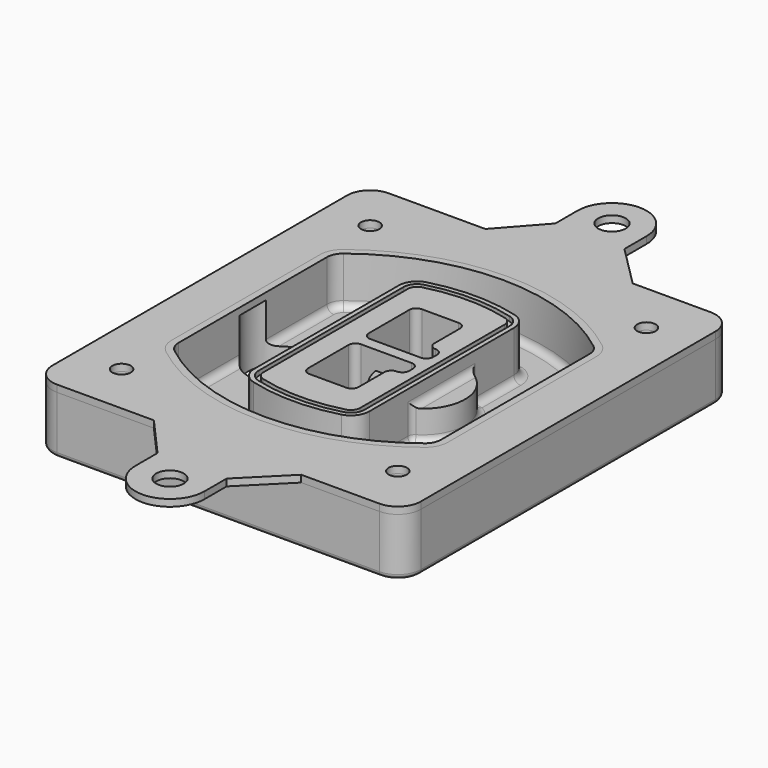
from build123d import *

# Parameters (mm, degrees)
F0_R      = 4
F1_DEPTH  = 25
F2_DEPTH  = 3
F3_DEPTH  = 18
F5_DEPTH  = 21
F6_DEPTH  = 2
F8_DEPTH  = 20
F9_DEPTH  = 16
F10_DEPTH = 25
F7_R      = 6
F7_R_2    = 4
F11_DEPTH = 6
F13_DEPTH = 9
F14_R     = 3
F15_R     = 2
F16_R     = 6
F16_R_2   = 4
F17_DEPTH = 3


with BuildPart() as f1:
    # F0 (on Top) → F1 (new body)
    with BuildSketch(Plane.XY):
        with BuildLine():
            ThreePointArc((-80, -80), (-77.0710678119, -87.0710678119), (-70, -90))
            Line((-70, -90), (70, -90))
            ThreePointArc((70, -90), (77.0710678119, -87.0710678119), (80, -80))
            Line((80, -80), (80, 80))
            ThreePointArc((80, 80), (77.0710678119, 87.0710678119), (70, 90))
            Line((70, 90), (-70, 90))
            ThreePointArc((-70, 90), (-77.0710678119, 87.0710678119), (-80, 80))
            Line((-80, 80), (-80, -80))
        make_face()
        with Locations((-60, -67.5)):
            Circle(F0_R, mode=Mode.SUBTRACT)
        with Locations((60, -67.5)):
            Circle(F0_R, mode=Mode.SUBTRACT)
        with Locations((-60, 67.5)):
            Circle(F0_R, mode=Mode.SUBTRACT)
        with BuildLine():
            ThreePointArc((-64, 40.2934422872), (-62.5820384798, 46.4328484224), (-58.6153846154, 51.3286200352))
            ThreePointArc((-58.6153846154, 51.3286200352), (0, 71.5), (58.6153846154, 51.3286200352))
            ThreePointArc((58.6153846154, 51.3286200352), (62.5820384798, 46.4328484224), (64, 40.2934422872))
            Line((64, 40.2934422872), (64, -40.2934422872))
            ThreePointArc((64, -40.2934422872), (62.5820384798, -46.4328484224), (58.6153846154, -51.3286200352))
            ThreePointArc((58.6153846154, -51.3286200352), (0, -71.5), (-58.6153846154, -51.3286200352))
            ThreePointArc((-58.6153846154, -51.3286200352), (-62.5820384798, -46.4328484224), (-64, -40.2934422872))
            Line((-64, -40.2934422872), (-64, 40.2934422872))
        make_face(mode=Mode.SUBTRACT)
        with Locations((60, 67.5)):
            Circle(F0_R, mode=Mode.SUBTRACT)
        with BuildLine():
            ThreePointArc((58.6153846154, 51.3286200352), (0, 71.5), (-58.6153846154, 51.3286200352))
            ThreePointArc((-58.6153846154, 51.3286200352), (-62.5820384798, 46.4328484224), (-64, 40.2934422872))
            Line((-64, 40.2934422872), (-64, -40.2934422872))
            ThreePointArc((-64, -40.2934422872), (-62.5820384798, -46.4328484224), (-58.6153846154, -51.3286200352))
            ThreePointArc((-58.6153846154, -51.3286200352), (0, -71.5), (58.6153846154, -51.3286200352))
            ThreePointArc((58.6153846154, -51.3286200352), (62.5820384798, -46.4328484224), (64, -40.2934422872))
            Line((64, -40.2934422872), (64, 40.2934422872))
            ThreePointArc((64, 40.2934422872), (62.5820384798, 46.4328484224), (58.6153846154, 51.3286200352))
        make_face()
        with BuildLine():
            Line((-60, -40.2934422872), (-60, 40.2934422872))
            ThreePointArc((-60, 40.2934422872), (-58.9871703427, 44.6787323838), (-56.1538461538, 48.1757121072))
            ThreePointArc((-56.1538461538, 48.1757121072), (0, 67.5), (56.1538461538, 48.1757121072))
            ThreePointArc((56.1538461538, 48.1757121072), (58.9871703427, 44.6787323838), (60, 40.2934422872))
            Line((60, 40.2934422872), (60, -40.2934422872))
            ThreePointArc((60, -40.2934422872), (58.9871703427, -44.6787323838), (56.1538461538, -48.1757121072))
            ThreePointArc((56.1538461538, -48.1757121072), (0, -67.5), (-56.1538461538, -48.1757121072))
            ThreePointArc((-56.1538461538, -48.1757121072), (-58.9871703427, -44.6787323838), (-60, -40.2934422872))
        make_face(mode=Mode.SUBTRACT)
        with BuildLine():
            ThreePointArc((-56.1538461538, 48.1757121072), (-58.9871703427, 44.6787323838), (-60, 40.2934422872))
            Line((-60, 40.2934422872), (-60, -40.2934422872))
            ThreePointArc((-60, -40.2934422872), (-58.9871703427, -44.6787323838), (-56.1538461538, -48.1757121072))
            ThreePointArc((-56.1538461538, -48.1757121072), (0, -67.5), (56.1538461538, -48.1757121072))
            ThreePointArc((56.1538461538, -48.1757121072), (58.9871703427, -44.6787323838), (60, -40.2934422872))
            Line((60, -40.2934422872), (60, 40.2934422872))
            ThreePointArc((60, 40.2934422872), (58.9871703427, 44.6787323838), (56.1538461538, 48.1757121072))
            ThreePointArc((56.1538461538, 48.1757121072), (0, 67.5), (-56.1538461538, 48.1757121072))
        make_face()
        with BuildLine():
            ThreePointArc((54.3076923077, 45.8110311612), (56.2910192399, 43.3631453548), (57, 40.2934422872))
            Line((57, 40.2934422872), (57, -40.2934422872))
            ThreePointArc((57, -40.2934422872), (56.2910192399, -43.3631453548), (54.3076923077, -45.8110311612))
            ThreePointArc((54.3076923077, -45.8110311612), (0, -64.5), (-54.3076923077, -45.8110311612))
            ThreePointArc((-54.3076923077, -45.8110311612), (-56.2910192399, -43.3631453548), (-57, -40.2934422872))
            Line((-57, -40.2934422872), (-57, 40.2934422872))
            ThreePointArc((-57, 40.2934422872), (-56.2910192399, 43.3631453548), (-54.3076923077, 45.8110311612))
            ThreePointArc((-54.3076923077, 45.8110311612), (0, 64.5), (54.3076923077, 45.8110311612))
        make_face(mode=Mode.SUBTRACT)
        with BuildLine():
            Line((57, -40.2934422872), (57, 40.2934422872))
            ThreePointArc((57, 40.2934422872), (56.2910192399, 43.3631453548), (54.3076923077, 45.8110311612))
            ThreePointArc((54.3076923077, 45.8110311612), (0, 64.5), (-54.3076923077, 45.8110311612))
            ThreePointArc((-54.3076923077, 45.8110311612), (-56.2910192399, 43.3631453548), (-57, 40.2934422872))
            Line((-57, 40.2934422872), (-57, -40.2934422872))
            ThreePointArc((-57, -40.2934422872), (-56.2910192399, -43.3631453548), (-54.3076923077, -45.8110311612))
            ThreePointArc((-54.3076923077, -45.8110311612), (0, -64.5), (54.3076923077, -45.8110311612))
            ThreePointArc((54.3076923077, -45.8110311612), (56.2910192399, -43.3631453548), (57, -40.2934422872))
        make_face()
    extrude(amount=-F1_DEPTH)

    # F0 (on Top) → F2 (join)
    with BuildSketch(Plane.XY):
        with BuildLine():
            ThreePointArc((-56.1538461538, 48.1757121072), (-58.9871703427, 44.6787323838), (-60, 40.2934422872))
            Line((-60, 40.2934422872), (-60, -40.2934422872))
            ThreePointArc((-60, -40.2934422872), (-58.9871703427, -44.6787323838), (-56.1538461538, -48.1757121072))
            ThreePointArc((-56.1538461538, -48.1757121072), (0, -67.5), (56.1538461538, -48.1757121072))
            ThreePointArc((56.1538461538, -48.1757121072), (58.9871703427, -44.6787323838), (60, -40.2934422872))
            Line((60, -40.2934422872), (60, 40.2934422872))
            ThreePointArc((60, 40.2934422872), (58.9871703427, 44.6787323838), (56.1538461538, 48.1757121072))
            ThreePointArc((56.1538461538, 48.1757121072), (0, 67.5), (-56.1538461538, 48.1757121072))
        make_face()
        with BuildLine():
            ThreePointArc((54.3076923077, 45.8110311612), (56.2910192399, 43.3631453548), (57, 40.2934422872))
            Line((57, 40.2934422872), (57, -40.2934422872))
            ThreePointArc((57, -40.2934422872), (56.2910192399, -43.3631453548), (54.3076923077, -45.8110311612))
            ThreePointArc((54.3076923077, -45.8110311612), (0, -64.5), (-54.3076923077, -45.8110311612))
            ThreePointArc((-54.3076923077, -45.8110311612), (-56.2910192399, -43.3631453548), (-57, -40.2934422872))
            Line((-57, -40.2934422872), (-57, 40.2934422872))
            ThreePointArc((-57, 40.2934422872), (-56.2910192399, 43.3631453548), (-54.3076923077, 45.8110311612))
            ThreePointArc((-54.3076923077, 45.8110311612), (0, 64.5), (54.3076923077, 45.8110311612))
        make_face(mode=Mode.SUBTRACT)
    extrude(amount=F2_DEPTH)

    # F0 (on Top) → F3 (cut)
    with BuildSketch(Plane.XY):
        with BuildLine():
            Line((57, -40.2934422872), (57, 40.2934422872))
            ThreePointArc((57, 40.2934422872), (56.2910192399, 43.3631453548), (54.3076923077, 45.8110311612))
            ThreePointArc((54.3076923077, 45.8110311612), (0, 64.5), (-54.3076923077, 45.8110311612))
            ThreePointArc((-54.3076923077, 45.8110311612), (-56.2910192399, 43.3631453548), (-57, 40.2934422872))
            Line((-57, 40.2934422872), (-57, -40.2934422872))
            ThreePointArc((-57, -40.2934422872), (-56.2910192399, -43.3631453548), (-54.3076923077, -45.8110311612))
            ThreePointArc((-54.3076923077, -45.8110311612), (0, -64.5), (54.3076923077, -45.8110311612))
            ThreePointArc((54.3076923077, -45.8110311612), (56.2910192399, -43.3631453548), (57, -40.2934422872))
        make_face()
    extrude(amount=-F3_DEPTH, mode=Mode.SUBTRACT)

    # F4 (on face) → F5 (join, through all)
    with BuildSketch(Plane.XY.offset(3)):
        with BuildLine():
            ThreePointArc((-25, -39.2465276821), (-23.3511545998, -44.1109737193), (-19.0842911877, -46.9702398883))
            ThreePointArc((-19.0842911877, -46.9702398883), (0, -49.5), (19.0842911877, -46.9702398883))
            ThreePointArc((19.0842911877, -46.9702398883), (23.3511545998, -44.1109737193), (25, -39.2465276821))
            Line((25, -39.2465276821), (25, 39.2465276821))
            ThreePointArc((25, 39.2465276821), (23.3511545998, 44.1109737193), (19.0842911877, 46.9702398883))
            ThreePointArc((19.0842911877, 46.9702398883), (0, 49.5), (-19.0842911877, 46.9702398883))
            ThreePointArc((-19.0842911877, 46.9702398883), (-23.3511545998, 44.1109737193), (-25, 39.2465276821))
            Line((-25, 39.2465276821), (-25, -39.2465276821))
        make_face()
        with BuildLine():
            ThreePointArc((18.5632183908, 45.0393118368), (21.7633659499, 42.89486221), (23, 39.2465276821))
            Line((23, 39.2465276821), (23, -39.2465276821))
            ThreePointArc((23, -39.2465276821), (21.7633659499, -42.89486221), (18.5632183908, -45.0393118368))
            ThreePointArc((18.5632183908, -45.0393118368), (0, -47.5), (-18.5632183908, -45.0393118368))
            ThreePointArc((-18.5632183908, -45.0393118368), (-21.7633659499, -42.89486221), (-23, -39.2465276821))
            Line((-23, -39.2465276821), (-23, 39.2465276821))
            ThreePointArc((-23, 39.2465276821), (-21.7633659499, 42.89486221), (-18.5632183908, 45.0393118368))
            ThreePointArc((-18.5632183908, 45.0393118368), (0, 47.5), (18.5632183908, 45.0393118368))
        make_face(mode=Mode.SUBTRACT)
        with BuildLine():
            Line((23, -39.2465276821), (23, 39.2465276821))
            ThreePointArc((23, 39.2465276821), (21.7633659499, 42.89486221), (18.5632183908, 45.0393118368))
            ThreePointArc((18.5632183908, 45.0393118368), (0, 47.5), (-18.5632183908, 45.0393118368))
            ThreePointArc((-18.5632183908, 45.0393118368), (-21.7633659499, 42.89486221), (-23, 39.2465276821))
            Line((-23, 39.2465276821), (-23, -39.2465276821))
            ThreePointArc((-23, -39.2465276821), (-21.7633659499, -42.89486221), (-18.5632183908, -45.0393118368))
            ThreePointArc((-18.5632183908, -45.0393118368), (0, -47.5), (18.5632183908, -45.0393118368))
            ThreePointArc((18.5632183908, -45.0393118368), (21.7633659499, -42.89486221), (23, -39.2465276821))
        make_face()
        with BuildLine():
            ThreePointArc((18.0421455939, 43.1083837852), (20.1755772999, 41.6787507007), (21, 39.2465276821))
            Line((21, 39.2465276821), (21, -39.2465276821))
            ThreePointArc((21, -39.2465276821), (20.1755772999, -41.6787507007), (18.0421455939, -43.1083837852))
            ThreePointArc((18.0421455939, -43.1083837852), (0, -45.5), (-18.0421455939, -43.1083837852))
            ThreePointArc((-18.0421455939, -43.1083837852), (-20.1755772999, -41.6787507007), (-21, -39.2465276821))
            Line((-21, -39.2465276821), (-21, 39.2465276821))
            ThreePointArc((-21, 39.2465276821), (-20.1755772999, 41.6787507007), (-18.0421455939, 43.1083837852))
            ThreePointArc((-18.0421455939, 43.1083837852), (0, 45.5), (18.0421455939, 43.1083837852))
        make_face(mode=Mode.SUBTRACT)
        with BuildLine():
            Line((21, -39.2465276821), (21, 39.2465276821))
            ThreePointArc((21, 39.2465276821), (20.1755772999, 41.6787507007), (18.0421455939, 43.1083837852))
            ThreePointArc((18.0421455939, 43.1083837852), (0, 45.5), (-18.0421455939, 43.1083837852))
            ThreePointArc((-18.0421455939, 43.1083837852), (-20.1755772999, 41.6787507007), (-21, 39.2465276821))
            Line((-21, 39.2465276821), (-21, -39.2465276821))
            ThreePointArc((-21, -39.2465276821), (-20.1755772999, -41.6787507007), (-18.0421455939, -43.1083837852))
            ThreePointArc((-18.0421455939, -43.1083837852), (0, -45.5), (18.0421455939, -43.1083837852))
            ThreePointArc((18.0421455939, -43.1083837852), (20.1755772999, -41.6787507007), (21, -39.2465276821))
        make_face()
        with BuildLine():
            Line((-8, -2.5), (14, -2.5))
            ThreePointArc((14, -2.5), (16.1213203436, -3.3786796564), (17, -5.5))
            Line((17, -5.5), (17, -7.5))
            ThreePointArc((17, -7.5), (16.1213203436, -9.6213203436), (14, -10.5))
            ThreePointArc((14, -10.5), (11.8786796564, -11.3786796564), (11, -13.5))
            Line((11, -13.5), (11, -27.5))
            ThreePointArc((11, -27.5), (10.1213203436, -29.6213203436), (8, -30.5))
            Line((8, -30.5), (-8, -30.5))
            ThreePointArc((-8, -30.5), (-10.1213203436, -29.6213203436), (-11, -27.5))
            Line((-11, -27.5), (-11, -5.5))
            ThreePointArc((-11, -5.5), (-10.1213203436, -3.3786796564), (-8, -2.5))
        make_face(mode=Mode.SUBTRACT)
        with BuildLine():
            ThreePointArc((-8, 2.5), (-10.1213203436, 3.3786796564), (-11, 5.5))
            Line((-11, 5.5), (-11, 27.5))
            ThreePointArc((-11, 27.5), (-10.1213203436, 29.6213203436), (-8, 30.5))
            Line((-8, 30.5), (8, 30.5))
            ThreePointArc((8, 30.5), (10.1213203436, 29.6213203436), (11, 27.5))
            Line((11, 27.5), (11, 13.5))
            ThreePointArc((11, 13.5), (11.8786796564, 11.3786796564), (14, 10.5))
            ThreePointArc((14, 10.5), (16.1213203436, 9.6213203436), (17, 7.5))
            Line((17, 7.5), (17, 5.5))
            ThreePointArc((17, 5.5), (16.1213203436, 3.3786796564), (14, 2.5))
            Line((14, 2.5), (-8, 2.5))
        make_face(mode=Mode.SUBTRACT)
    extrude(amount=-F5_DEPTH)

    # F4 (on face) → F6 (cut)
    with BuildSketch(Plane.XY.offset(3)):
        with BuildLine():
            Line((23, -39.2465276821), (23, 39.2465276821))
            ThreePointArc((23, 39.2465276821), (21.7633659499, 42.89486221), (18.5632183908, 45.0393118368))
            ThreePointArc((18.5632183908, 45.0393118368), (0, 47.5), (-18.5632183908, 45.0393118368))
            ThreePointArc((-18.5632183908, 45.0393118368), (-21.7633659499, 42.89486221), (-23, 39.2465276821))
            Line((-23, 39.2465276821), (-23, -39.2465276821))
            ThreePointArc((-23, -39.2465276821), (-21.7633659499, -42.89486221), (-18.5632183908, -45.0393118368))
            ThreePointArc((-18.5632183908, -45.0393118368), (0, -47.5), (18.5632183908, -45.0393118368))
            ThreePointArc((18.5632183908, -45.0393118368), (21.7633659499, -42.89486221), (23, -39.2465276821))
        make_face()
        with BuildLine():
            ThreePointArc((18.0421455939, 43.1083837852), (20.1755772999, 41.6787507007), (21, 39.2465276821))
            Line((21, 39.2465276821), (21, -39.2465276821))
            ThreePointArc((21, -39.2465276821), (20.1755772999, -41.6787507007), (18.0421455939, -43.1083837852))
            ThreePointArc((18.0421455939, -43.1083837852), (0, -45.5), (-18.0421455939, -43.1083837852))
            ThreePointArc((-18.0421455939, -43.1083837852), (-20.1755772999, -41.6787507007), (-21, -39.2465276821))
            Line((-21, -39.2465276821), (-21, 39.2465276821))
            ThreePointArc((-21, 39.2465276821), (-20.1755772999, 41.6787507007), (-18.0421455939, 43.1083837852))
            ThreePointArc((-18.0421455939, 43.1083837852), (0, 45.5), (18.0421455939, 43.1083837852))
        make_face(mode=Mode.SUBTRACT)
    extrude(amount=-F6_DEPTH, mode=Mode.SUBTRACT)

    # F7 (on face) → F8 (join)
    with BuildSketch(Plane(origin=(0, 0, -25), x_dir=(1, 0, 0), z_dir=(0, 0, -1))):
        with BuildLine():
            ThreePointArc((3.28842436, 0), (16.7567035675, 13.4682792075), (30.224982775, 0))
            Line((30.224982775, 0), (35.224982775, 0))
            ThreePointArc((35.224982775, 0), (16.7567035675, 18.4682792075), (-1.71157564, 0))
            Line((-1.71157564, 0), (3.28842436, 0))
        make_face()
        with BuildLine():
            Line((3.28842436, 0), (30.224982775, 0))
            ThreePointArc((30.224982775, 0), (16.7567035675, 13.4682792075), (3.28842436, 0))
        make_face()
        with BuildLine():
            ThreePointArc((3.28842436, 0), (16.7567035675, -13.4682792075), (30.224982775, 0))
            Line((30.224982775, 0), (3.28842436, 0))
        make_face()
        with BuildLine():
            Line((35.224982775, 0), (30.224982775, 0))
            ThreePointArc((30.224982775, 0), (16.7567035675, -13.4682792075), (3.28842436, 0))
            Line((3.28842436, 0), (-1.71157564, 0))
            ThreePointArc((-1.71157564, 0), (16.7567035675, -18.4682792075), (35.224982775, 0))
        make_face()
    extrude(amount=-F8_DEPTH)

    # F7 (on face) → F9 (cut)
    with BuildSketch(Plane(origin=(0, 0, -25), x_dir=(1, 0, 0), z_dir=(0, 0, -1))):
        with BuildLine():
            Line((3.28842436, 0), (30.224982775, 0))
            ThreePointArc((30.224982775, 0), (16.7567035675, 13.4682792075), (3.28842436, 0))
        make_face()
        with BuildLine():
            ThreePointArc((3.28842436, 0), (16.7567035675, -13.4682792075), (30.224982775, 0))
            Line((30.224982775, 0), (3.28842436, 0))
        make_face()
    extrude(amount=-F9_DEPTH, mode=Mode.SUBTRACT)

    # F7 (on face) → F10 (cut)
    with BuildSketch(Plane(origin=(0, 0, -25), x_dir=(1, 0, 0), z_dir=(0, 0, -1))):
        with BuildLine():
            Line((-59.0318229325, 0), (-32.0952645175, 0))
            ThreePointArc((-32.0952645175, 0), (-45.563543725, 13.4682792075), (-59.0318229325, 0))
        make_face()
        with BuildLine():
            ThreePointArc((-59.0318229325, 0), (-45.563543725, -13.4682792075), (-32.0952645175, 0))
            Line((-32.0952645175, 0), (-59.0318229325, 0))
        make_face()
    extrude(amount=-F10_DEPTH, mode=Mode.SUBTRACT)

    # F7 (on face) → F11 (cut)
    with BuildSketch(Plane(origin=(0, 0, -25), x_dir=(1, 0, 0), z_dir=(0, 0, -1))):
        with Locations((60, -67.5)):
            Circle(F7_R)
        with Locations((60, -67.5)):
            Circle(F7_R_2, mode=Mode.SUBTRACT)
        with Locations((60, -67.5)):
            Circle(F7_R)
        with Locations((60, -67.5)):
            Circle(F7_R_2, mode=Mode.SUBTRACT)
        with Locations((-60, -67.5)):
            Circle(F7_R)
        with Locations((-60, -67.5)):
            Circle(F7_R_2, mode=Mode.SUBTRACT)
        with Locations((-60, -67.5)):
            Circle(F7_R)
        with Locations((-60, -67.5)):
            Circle(F7_R_2, mode=Mode.SUBTRACT)
        with Locations((-60, 67.5)):
            Circle(F7_R)
        with Locations((-60, 67.5)):
            Circle(F7_R_2, mode=Mode.SUBTRACT)
        with Locations((-60, 67.5)):
            Circle(F7_R)
        with Locations((-60, 67.5)):
            Circle(F7_R_2, mode=Mode.SUBTRACT)
        with Locations((60, 67.5)):
            Circle(F7_R)
        with Locations((60, 67.5)):
            Circle(F7_R_2, mode=Mode.SUBTRACT)
        with Locations((60, 67.5)):
            Circle(F7_R)
        with Locations((60, 67.5)):
            Circle(F7_R_2, mode=Mode.SUBTRACT)
    extrude(amount=-F11_DEPTH, mode=Mode.SUBTRACT)

    # F12 (on face) → F13 (cut, through all)
    with BuildSketch(Plane(origin=(0, 0, -9), x_dir=(1, 0, 0), z_dir=(0, 0, -1))):
        with BuildLine():
            Line((11, 13.5), (11, 17.5481537753))
            ThreePointArc((11, 17.5481537753), (2.5696536419, 11.8239143813), (-1.5415842455, 2.5))
            Line((-1.5415842455, 2.5), (3.5224848595, 2.5))
            ThreePointArc((3.5224848595, 2.5), (6.1857188154, 8.3455872281), (11.2536447004, 12.2927168648))
            ThreePointArc((11.2536447004, 12.2927168648), (11.0640958889, 12.8831798879), (11, 13.5))
        make_face()
        with BuildLine():
            ThreePointArc((11.2536447004, -12.2927168648), (6.1857188154, -8.3455872281), (3.5224848595, -2.5))
            Line((3.5224848595, -2.5), (-1.5415842455, -2.5))
            ThreePointArc((-1.5415842455, -2.5), (2.5696536419, -11.8239143813), (11, -17.5481537753))
            Line((11, -17.5481537753), (11, -13.5))
            ThreePointArc((11, -13.5), (11.0640958889, -12.8831798879), (11.2536447004, -12.2927168648))
        make_face()
        with BuildLine():
            ThreePointArc((11.2536447004, 12.2927168648), (6.1857188154, 8.3455872281), (3.5224848595, 2.5))
            Line((3.5224848595, 2.5), (14, 2.5))
            ThreePointArc((14, 2.5), (16.1213203436, 3.3786796564), (17, 5.5))
            Line((17, 5.5), (17, 7.5))
            ThreePointArc((17, 7.5), (16.1213203436, 9.6213203436), (14, 10.5))
            ThreePointArc((14, 10.5), (12.3601599782, 10.9878446101), (11.2536447004, 12.2927168648))
        make_face()
        with BuildLine():
            Line((14, -2.5), (3.5224848595, -2.5))
            ThreePointArc((3.5224848595, -2.5), (6.1857188154, -8.3455872281), (11.2536447004, -12.2927168648))
            ThreePointArc((11.2536447004, -12.2927168648), (12.3601599782, -10.9878446101), (14, -10.5))
            ThreePointArc((14, -10.5), (16.1213203436, -9.6213203436), (17, -7.5))
            Line((17, -7.5), (17, -5.5))
            ThreePointArc((17, -5.5), (16.1213203436, -3.3786796564), (14, -2.5))
        make_face()
    extrude(amount=F13_DEPTH, mode=Mode.SUBTRACT)

    # F14
    f14_edges = [f1.edges().sort_by_distance(p)[0] for p in [
        (-57, -23.703476, -18),
        (-57, 23.703476, -18),
        (25, 0, -5),
        (25, 16.526506, -11.5),
        (25, -16.526506, -11.5),
        (25, -27.886517, -18),
        (35.224983, 0, -18),
    ]]
    fillet(f14_edges, radius=F14_R)

    # F15
    f15_edges = [f1.edges().sort_by_distance(p)[0] for p in [
        (0, -90, -25),
    ]]
    fillet(f15_edges, radius=F15_R)


with BuildPart() as f17:
    # F16 (on face) → F17 (new body, through all)
    with BuildSketch(Plane.XY):
        with BuildLine():
            Line((-27.9662050307, 90), (36.0360496101, 90))
            Line((36.0360496101, 90), (18.0360496101, 108))
            Line((18.0360496101, 108), (18.0360496101, 120))
            ThreePointArc((18.0360496101, 120), (3.0360496101, 135), (-11.9639503899, 120))
            Line((-11.9639503899, 120), (-11.9639503899, 108))
            Line((-11.9639503899, 108), (-27.9662050307, 90))
        make_face()
        with Locations((3.0360496101, 120)):
            Circle(F16_R, mode=Mode.SUBTRACT)
        with BuildLine():
            Line((80, -80), (80, 80))
            ThreePointArc((80, 80), (77.0710678119, 87.0710678119), (70, 90))
            Line((70, 90), (36.0360496101, 90))
            Line((36.0360496101, 90), (-27.9662050307, 90))
            Line((-27.9662050307, 90), (-38.6340878904, 90))
            Line((-38.6340878904, 90), (-70, 90))
            ThreePointArc((-70, 90), (-77.0710678119, 87.0710678119), (-80, 80))
            Line((-80, 80), (-80, -80))
            ThreePointArc((-80, -80), (-77.0710678119, -87.0710678119), (-70, -90))
            Line((-70, -90), (-27.9662050307, -90))
            Line((-27.9662050307, -90), (36.0360496101, -90))
            Line((36.0360496101, -90), (70, -90))
            ThreePointArc((70, -90), (77.0710678119, -87.0710678119), (80, -80))
        make_face()
        with Locations((-60, -67.5)):
            Circle(F16_R_2, mode=Mode.SUBTRACT)
        with Locations((60, -67.5)):
            Circle(F16_R_2, mode=Mode.SUBTRACT)
        with Locations((-60, 67.5)):
            Circle(F16_R_2, mode=Mode.SUBTRACT)
        with BuildLine():
            ThreePointArc((-56.1538461538, 48.1757121072), (0, 67.5), (56.1538461538, 48.1757121072))
            ThreePointArc((56.1538461538, 48.1757121072), (58.9871703427, 44.6787323838), (60, 40.2934422872))
            Line((60, 40.2934422872), (60, -40.2934422872))
            ThreePointArc((60, -40.2934422872), (58.9871703427, -44.6787323838), (56.1538461538, -48.1757121072))
            ThreePointArc((56.1538461538, -48.1757121072), (0, -67.5), (-56.1538461538, -48.1757121072))
            ThreePointArc((-56.1538461538, -48.1757121072), (-58.9871703427, -44.6787323838), (-60, -40.2934422872))
            Line((-60, -40.2934422872), (-60, 40.2934422872))
            ThreePointArc((-60, 40.2934422872), (-58.9871703427, 44.6787323838), (-56.1538461538, 48.1757121072))
        make_face(mode=Mode.SUBTRACT)
        with Locations((60, 67.5)):
            Circle(F16_R_2, mode=Mode.SUBTRACT)
        with BuildLine():
            Line((18.0360496101, -108), (36.0360496101, -90))
            Line((36.0360496101, -90), (-27.9662050307, -90))
            Line((-27.9662050307, -90), (-11.9639503899, -108))
            Line((-11.9639503899, -108), (-11.9639503899, -120))
            ThreePointArc((-11.9639503899, -120), (3.0360496101, -135), (18.0360496101, -120))
            Line((18.0360496101, -120), (18.0360496101, -108))
        make_face()
        with Locations((3.0360496101, -120)):
            Circle(F16_R, mode=Mode.SUBTRACT)
    extrude(amount=F17_DEPTH)


solid = Compound([f1.part, f17.part])
